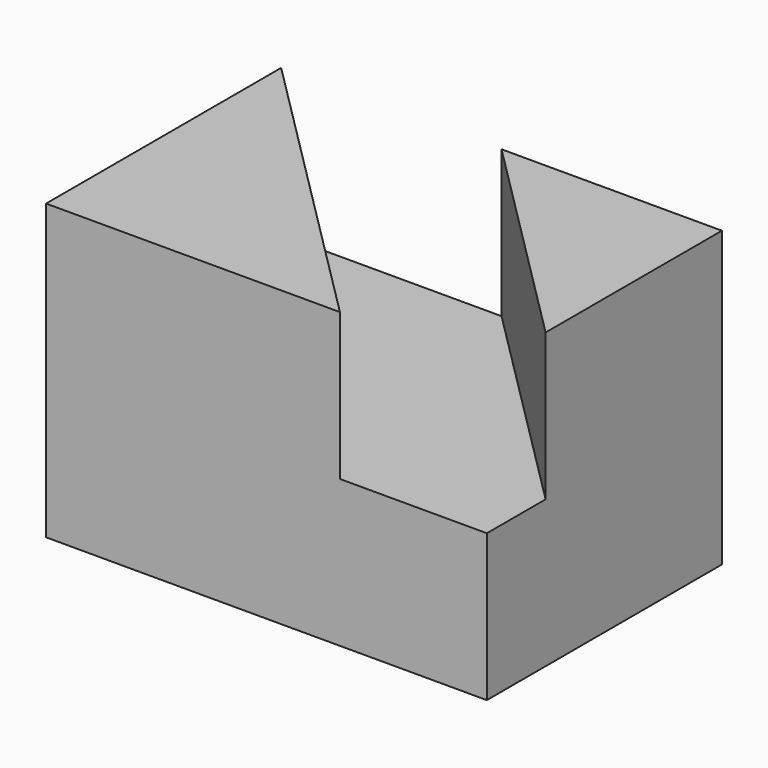
from build123d import *

# Parameters (mm, degrees)
F0_W     = 38.1
F0_H     = 25.4
F1_DEPTH = 25.4
F2_W     = 6.35
F2_H     = 12.7
F3_DEPTH = 12.7
F5_DEPTH = 12.7


with BuildPart() as f1:
    # F0 (on Front) → F1 (new body)
    with BuildSketch(Plane.XZ):
        with Locations((19.05, 12.7)):
            Rectangle(F0_W, F0_H)
    extrude(amount=F1_DEPTH)

    # F2 (on face) → F3 (cut)
    with BuildSketch(Plane.YZ.offset(38.1)):
        with Locations((-22.225, 19.05)):
            Rectangle(F2_W, F2_H)
    extrude(amount=-F3_DEPTH, mode=Mode.SUBTRACT)

    # F4 (on face) → F5 (cut)
    with BuildSketch(Plane.XY.offset(25.4)):
        Polygon((0, 0), (25.4, -25.4), (25.4, -19.05), (38.1, -19.05), (19.05, 0), align=None)
    extrude(amount=-F5_DEPTH, mode=Mode.SUBTRACT)


solid = f1.part
